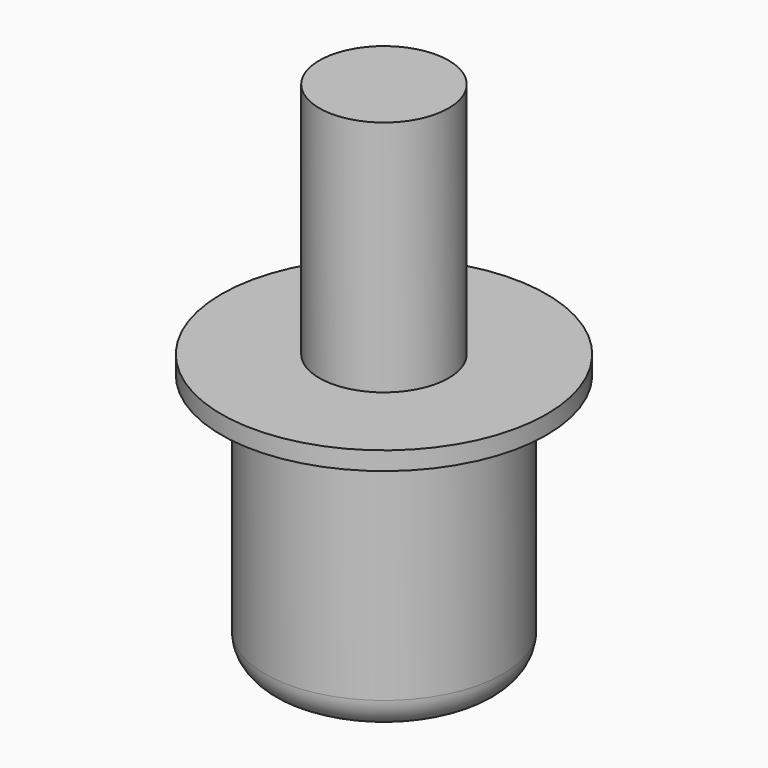
from build123d import *

# Parameters (mm, degrees)
F0_R     = 3.251914
F0_R_2   = 1.769806
F1_DEPTH = 7
F2_R     = 0.852507
F3_DEPTH = 14
F4_R     = 4.449329
F4_R_2   = 3.251914
F4_R_3   = 1.769806
F5_DEPTH = 0.5


with BuildPart() as f1:
    # F0 (on Top) → F1 (new body)
    with BuildSketch(Plane.XY):
        Circle(F0_R)
        Circle(F0_R_2, mode=Mode.SUBTRACT)
    extrude(amount=F1_DEPTH)

    # F2
    f2_edges = [f1.edges().sort_by_distance(p)[0] for p in [
        (-3.251914, 0, 0),
    ]]
    fillet(f2_edges, radius=F2_R)

    # F0 (on Top) → F3 (join)
    with BuildSketch(Plane.XY):
        Circle(F0_R_2)
    extrude(amount=F3_DEPTH)

    # F4 (on face) → F5 (join)
    with BuildSketch(Plane.XY.offset(7)):
        Circle(F4_R)
        Circle(F4_R_2, mode=Mode.SUBTRACT)
        Circle(F4_R_2)
        Circle(F4_R_3, mode=Mode.SUBTRACT)
    extrude(amount=F5_DEPTH)


solid = f1.part
